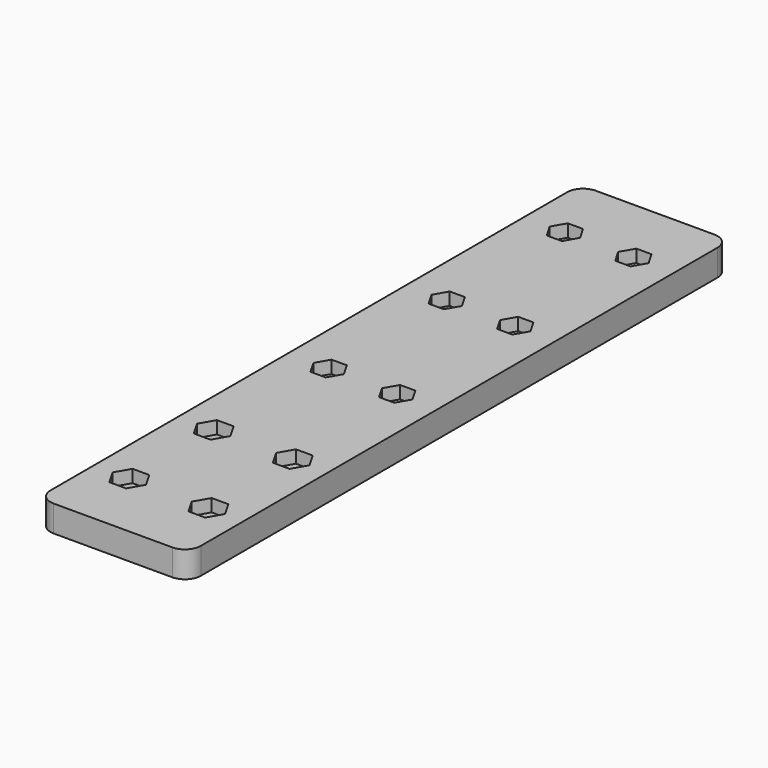
from build123d import *

# Parameters (mm, degrees)
F0_W     = 28.5
F0_H     = 128.5
F0_R     = 1.5
F0_R_2   = 1.25
F1_DEPTH = 5
F2_R     = 1.25
F2_R_2   = 1.5
F3_DEPTH = 2.4
F4_R     = 3


with BuildPart() as f1:
    # F0 (on Top) → F1 (new body)
    with BuildSketch(Plane.XY):
        with Locations((14.25, 64.25)):
            Rectangle(F0_W, F0_H)
        with Locations((6.75, 13.25)):
            Circle(F0_R, mode=Mode.SUBTRACT)
        with Locations((6.75, 33.25)):
            Circle(F0_R, mode=Mode.SUBTRACT)
        with Locations((7.75, 59.25)):
            Circle(F0_R_2, mode=Mode.SUBTRACT)
        with Locations((21.75, 13.25)):
            Circle(F0_R, mode=Mode.SUBTRACT)
        with Locations((20.75, 59.25)):
            Circle(F0_R_2, mode=Mode.SUBTRACT)
        with Locations((21.75, 33.25)):
            Circle(F0_R, mode=Mode.SUBTRACT)
        with Locations((7.75, 87.25)):
            Circle(F0_R_2, mode=Mode.SUBTRACT)
        with Locations((7.75, 115.25)):
            Circle(F0_R_2, mode=Mode.SUBTRACT)
        with Locations((20.75, 87.25)):
            Circle(F0_R_2, mode=Mode.SUBTRACT)
        with Locations((20.75, 115.25)):
            Circle(F0_R_2, mode=Mode.SUBTRACT)
    extrude(amount=F1_DEPTH)

    # F2 (on face) → F3 (cut)
    with BuildSketch(Plane.XY.offset(5)):
        Polygon((6.306624, 84.75), (9.193376, 84.75), (10.636751, 87.25), (9.193376, 89.75), (6.306624, 89.75), (4.863249, 87.25), align=None)
        with Locations((7.75, 87.25)):
            Circle(F2_R, mode=Mode.SUBTRACT)
        Polygon((19.306624, 84.75), (22.193376, 84.75), (23.636751, 87.25), (22.193376, 89.75), (19.306624, 89.75), (17.863249, 87.25), align=None)
        with Locations((20.75, 87.25)):
            Circle(F2_R, mode=Mode.SUBTRACT)
        Polygon((6.306624, 112.75), (9.193376, 112.75), (10.636751, 115.25), (9.193376, 117.75), (6.306624, 117.75), (4.863249, 115.25), align=None)
        with Locations((7.75, 115.25)):
            Circle(F2_R, mode=Mode.SUBTRACT)
        Polygon((19.306624, 112.75), (22.193376, 112.75), (23.636751, 115.25), (22.193376, 117.75), (19.306624, 117.75), (17.863249, 115.25), align=None)
        with Locations((20.75, 115.25)):
            Circle(F2_R, mode=Mode.SUBTRACT)
        Polygon((19.306624, 56.75), (22.193376, 56.75), (23.636751, 59.25), (22.193376, 61.75), (19.306624, 61.75), (17.863249, 59.25), align=None)
        with Locations((20.75, 59.25)):
            Circle(F2_R, mode=Mode.SUBTRACT)
        Polygon((6.306624, 56.75), (9.193376, 56.75), (10.636751, 59.25), (9.193376, 61.75), (6.306624, 61.75), (4.863249, 59.25), align=None)
        with Locations((7.75, 59.25)):
            Circle(F2_R, mode=Mode.SUBTRACT)
        Polygon((5.162287, 30.5), (8.337713, 30.5), (9.925426, 33.25), (8.337713, 36), (5.162287, 36), (3.574574, 33.25), align=None)
        with Locations((6.75, 33.25)):
            Circle(F2_R_2, mode=Mode.SUBTRACT)
        Polygon((20.162287, 10.5), (23.337713, 10.5), (24.925426, 13.25), (23.337713, 16), (20.162287, 16), (18.574574, 13.25), align=None)
        with Locations((21.75, 13.25)):
            Circle(F2_R_2, mode=Mode.SUBTRACT)
        Polygon((5.162287, 10.5), (8.337713, 10.5), (9.925426, 13.25), (8.337713, 16), (5.162287, 16), (3.574574, 13.25), align=None)
        with Locations((6.75, 13.25)):
            Circle(F2_R_2, mode=Mode.SUBTRACT)
        Polygon((20.162287, 30.5), (23.337713, 30.5), (24.925426, 33.25), (23.337713, 36), (20.162287, 36), (18.574574, 33.25), align=None)
        with Locations((21.75, 33.25)):
            Circle(F2_R_2, mode=Mode.SUBTRACT)
    extrude(amount=-F3_DEPTH, mode=Mode.SUBTRACT)

    # F4
    f4_edges = [f1.edges().sort_by_distance(p)[0] for p in [
        (0, 0, 2.5),
        (28.5, 0, 2.5),
        (0, 128.5, 2.5),
        (28.5, 128.5, 2.5),
    ]]
    fillet(f4_edges, radius=F4_R)


solid = f1.part
